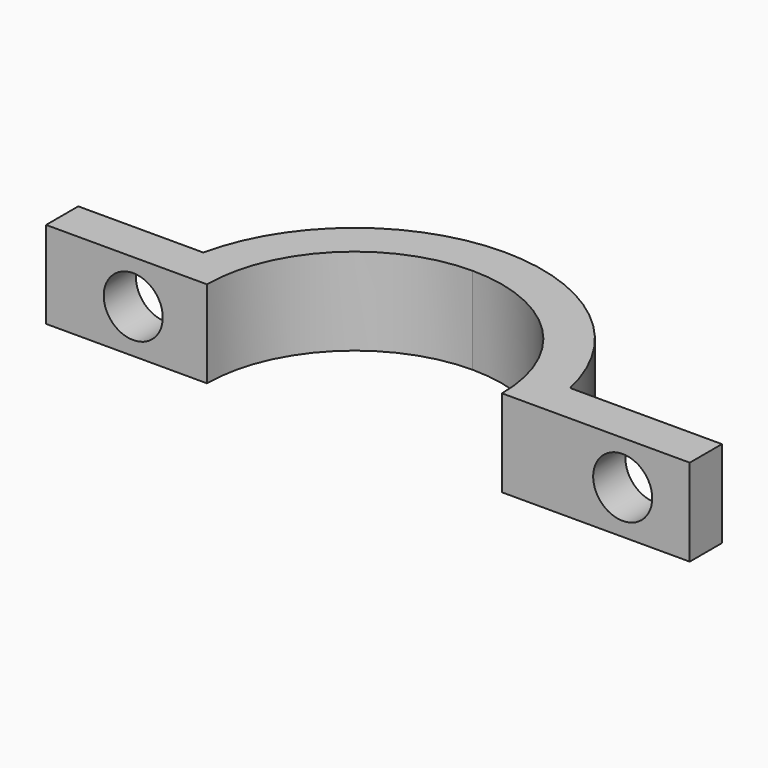
from build123d import *

# Parameters (mm, degrees)
F1_DEPTH = 6.5
F2_R     = 2.2
F3_DEPTH = 25


with BuildPart() as f1:
    # F0 (on Top) → F1 (new body)
    with BuildSketch(Plane.XY):
        with BuildLine():
            ThreePointArc((0, 11), (7.778175, 7.778175), (11, 0))
            Line((11, 0), (23, 0))
            Line((23, 0), (25, 0))
            Line((25, 0), (25, 3))
            Line((25, 3), (23, 3))
            Line((23, 3), (13.674794, 3))
            ThreePointArc((13.674794, 3), (8.774964, 10.908712), (0, 14))
            ThreePointArc((0, 14), (-8.774964, 10.908712), (-13.674794, 3))
            Line((-13.674794, 3), (-23, 3))
            Line((-23, 3), (-23, 0))
            Line((-23, 0), (-11, 0))
            ThreePointArc((-11, 0), (-7.778175, 7.778175), (0, 11))
        make_face()
    extrude(amount=F1_DEPTH)

    # F2 (on face) → F3 (cut)
    with BuildSketch(Plane.XZ):
        with Locations((-16.5, 3.25)):
            Circle(F2_R)
        with Locations((20, 3.25)):
            Circle(F2_R)
    extrude(amount=-F3_DEPTH, mode=Mode.SUBTRACT)


solid = f1.part
